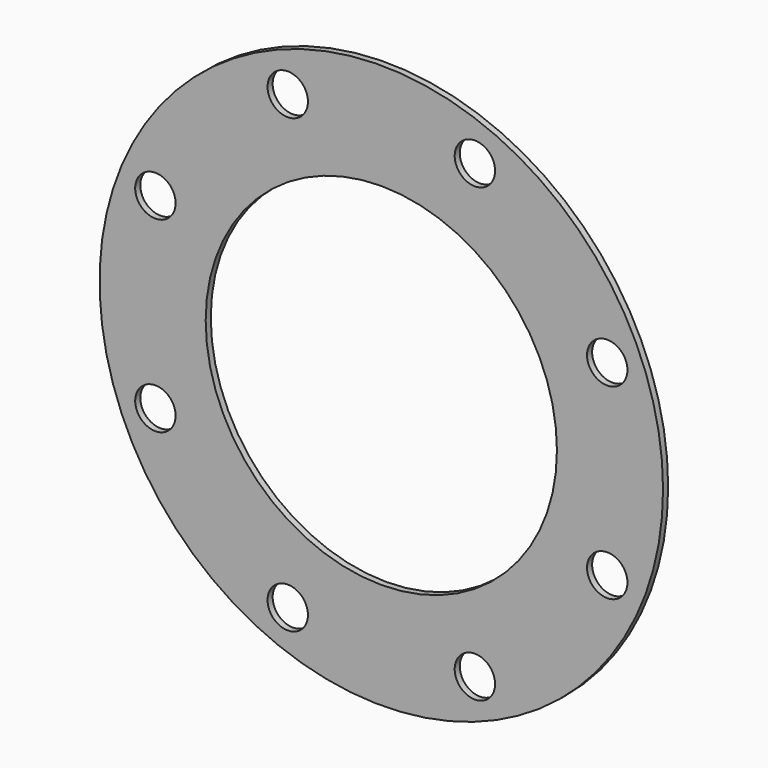
from build123d import *

# Parameters (mm, degrees)
F0_R     = 132.5
F0_R_2   = 9.5
F0_R_3   = 82.6
F1_DEPTH = 3


with BuildPart() as f1:
    # F0 (on Front) → F1 (new body)
    with BuildSketch(Plane.XZ):
        Circle(F0_R)
        with Locations((-44.008595, -106.246146)):
            Circle(F0_R_2, mode=Mode.SUBTRACT)
        with Locations((-106.246146, -44.008595)):
            Circle(F0_R_2, mode=Mode.SUBTRACT)
        with Locations((44.008595, -106.246146)):
            Circle(F0_R_2, mode=Mode.SUBTRACT)
        with Locations((106.246146, -44.008595)):
            Circle(F0_R_2, mode=Mode.SUBTRACT)
        with Locations((-106.246146, 44.008595)):
            Circle(F0_R_2, mode=Mode.SUBTRACT)
        with Locations((-44.008595, 106.246146)):
            Circle(F0_R_2, mode=Mode.SUBTRACT)
        Circle(F0_R_3, mode=Mode.SUBTRACT)
        with Locations((106.246146, 44.008595)):
            Circle(F0_R_2, mode=Mode.SUBTRACT)
        with Locations((44.008595, 106.246146)):
            Circle(F0_R_2, mode=Mode.SUBTRACT)
    extrude(amount=F1_DEPTH)


solid = f1.part
